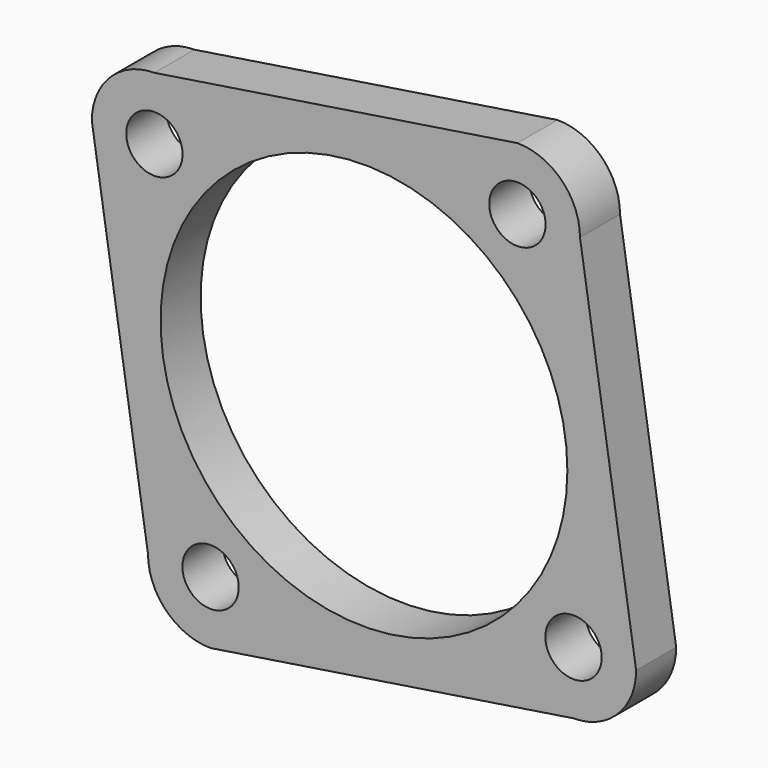
from build123d import *

# Parameters (mm, degrees)
F0_R     = 4.5
F0_R_2   = 32.5
F1_DEPTH = 8


with BuildPart() as f1:
    # F0 (on Front) → F1 (new body)
    with BuildSketch(Plane.XZ):
        with BuildLine():
            Line((24.51391, 43.48609), (-33.48609, 34.51391))
            ThreePointArc((-33.48609, 34.51391), (-40.557157, 31.584978), (-43.48609, 24.51391))
            Line((-43.48609, 24.51391), (-34.51391, -33.48609))
            ThreePointArc((-34.51391, -33.48609), (-31.584978, -40.557157), (-24.51391, -43.48609))
            Line((-24.51391, -43.48609), (33.48609, -34.51391))
            ThreePointArc((33.48609, -34.51391), (40.557157, -31.584978), (43.48609, -24.51391))
            Line((43.48609, -24.51391), (34.51391, 33.48609))
            ThreePointArc((34.51391, 33.48609), (31.584978, 40.557157), (24.51391, 43.48609))
        make_face()
        with Locations((-24.51391, -33.48609)):
            Circle(F0_R, mode=Mode.SUBTRACT)
        with Locations((33.48609, -24.51391)):
            Circle(F0_R, mode=Mode.SUBTRACT)
        Circle(F0_R_2, mode=Mode.SUBTRACT)
        with Locations((-33.48609, 24.51391)):
            Circle(F0_R, mode=Mode.SUBTRACT)
        with Locations((24.51391, 33.48609)):
            Circle(F0_R, mode=Mode.SUBTRACT)
    extrude(amount=F1_DEPTH)


solid = f1.part
